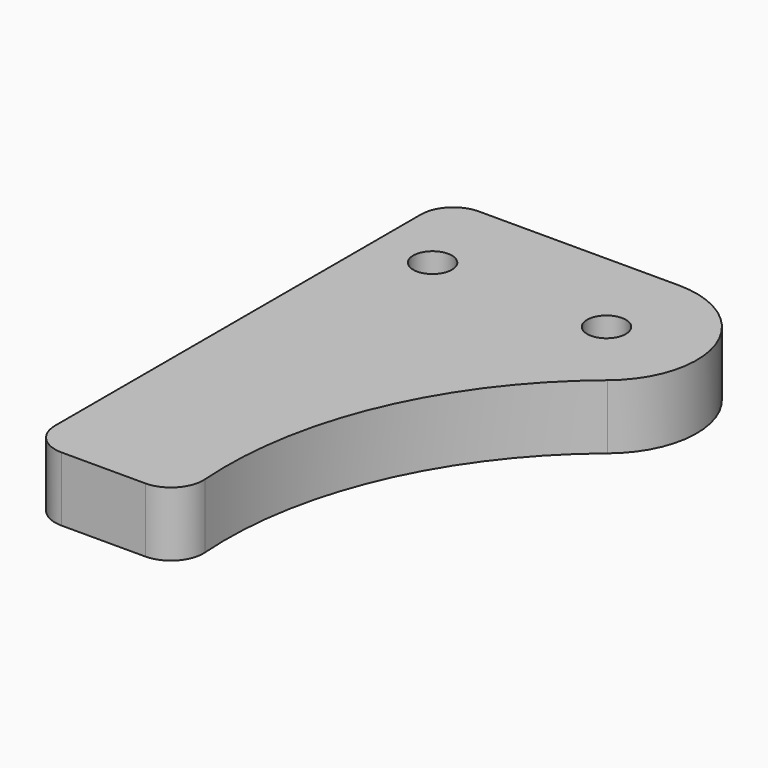
from build123d import *

# Parameters (mm, degrees)
SKETCH_R  = 3
PAD_DEPTH = 10


with BuildPart() as part:
    # Sketch → Pad (new body)
    with BuildSketch(Plane.XY):
        with BuildLine():
            Line((-31, 14), (0, 14))
            ThreePointArc((8.85963, -10.840063), (13.186373, 4.703144), (0, 14))
            ThreePointArc((8.85963, -10.840063), (-8.278867, -33.56864), (-13.013103, -61.638256))
            ThreePointArc((-18, -67), (-14.338803, -65.405237), (-13.013103, -61.638256))
            Line((-18, -67), (-31, -67))
            ThreePointArc((-36, -62), (-34.535534, -65.535534), (-31, -67))
            Line((-36, -62), (-36, 9))
            ThreePointArc((-31, 14), (-34.535534, 12.535534), (-36, 9))
        make_face()
        with Locations((-27, 0)):
            Circle(SKETCH_R, mode=Mode.SUBTRACT)
        Circle(SKETCH_R, mode=Mode.SUBTRACT)
    extrude(amount=PAD_DEPTH)


solid = part.part
